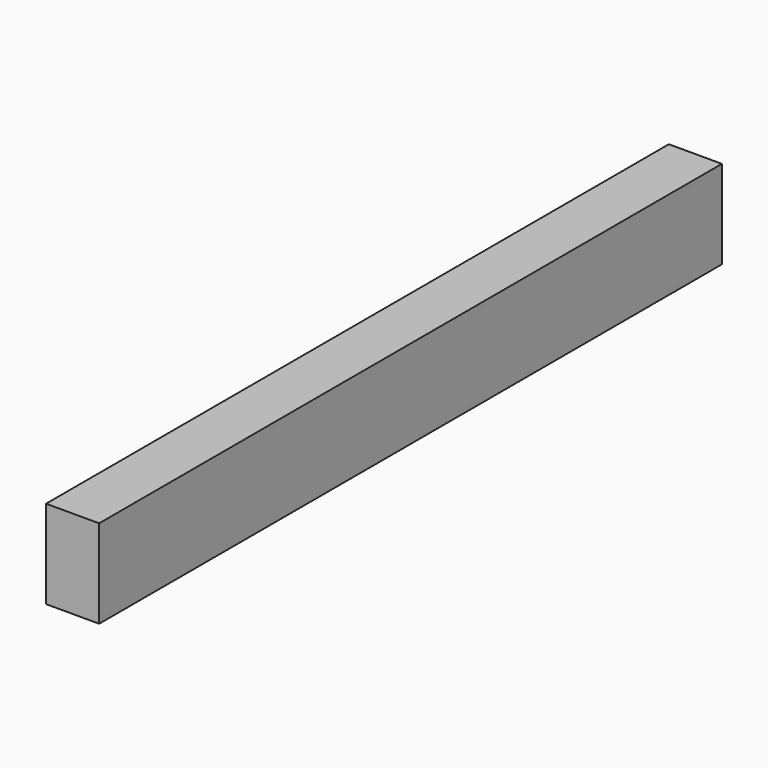
from build123d import *

# Parameters (mm, degrees)
SKETCH_W  = 60
SKETCH_H  = 100
PAD_DEPTH = 440


with BuildPart() as part:
    # Sketch → Pad (new body, symmetric)
    with BuildSketch(Plane.XZ):
        Rectangle(SKETCH_W, SKETCH_H)
    extrude(amount=PAD_DEPTH, both=True)


solid = part.part
